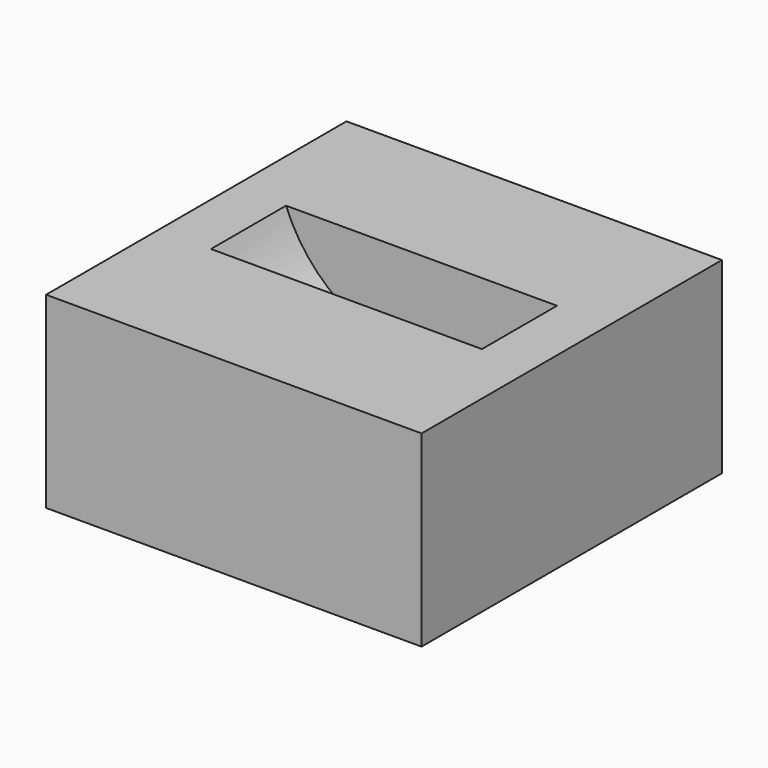
from build123d import *

# Parameters (mm, degrees)
F0_W     = 50.8
F0_H     = 25.4
F2_DEPTH = 25.4
F3_DEPTH = 6.35


with BuildPart() as f2:
    # F0 (on Front) → F2 (new body, symmetric)
    with BuildSketch(Plane.XZ):
        Rectangle(F0_W, F0_H)
    extrude(amount=F2_DEPTH, both=True)

    # F1 (on Front) → F3 (cut, symmetric)
    with BuildSketch(Plane.XZ):
        with BuildLine():
            Line((18.556945, 13.312588), (-18.556941, 13.312588))
            ThreePointArc((-18.556941, 13.312588), (2e-06, 0.164781), (18.556945, 13.312588))
        make_face()
    extrude(amount=F3_DEPTH, both=True, mode=Mode.SUBTRACT)


solid = f2.part
